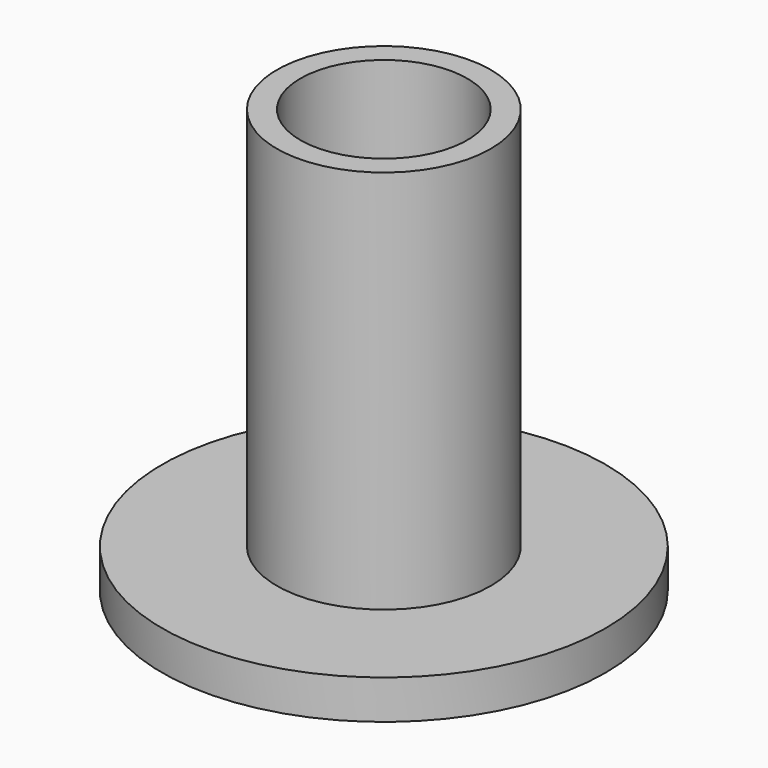
from build123d import *

# Parameters (mm, degrees)
F0_R     = 4.1
F1_DEPTH = 16.25
F0_R_2   = 8.5
F2_DEPTH = 1.5
F4_D     = 6.4


with BuildPart() as f1:
    # F0 (on Top) → F1 (new body)
    with BuildSketch(Plane.XY):
        Circle(F0_R)
    extrude(amount=F1_DEPTH)

    # F0 (on Top) → F2 (join)
    with BuildSketch(Plane.XY):
        Circle(F0_R_2)
        Circle(F0_R, mode=Mode.SUBTRACT)
    extrude(amount=F2_DEPTH)

    # F4 (through all)
    with Locations(Plane(origin=(0, 0, 0), x_dir=(1, 0, 0), z_dir=(0, 0, -1))):
        with Locations((0, 0)):
            Hole(F4_D / 2)


solid = f1.part
